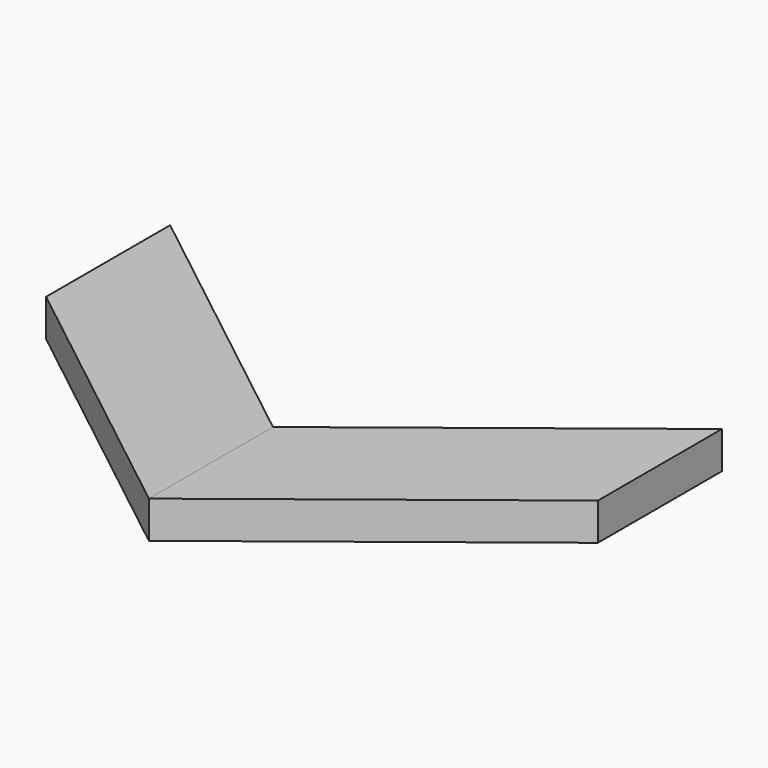
from build123d import *

# Parameters (mm, degrees)
F2_DEPTH = 15


with BuildPart() as f2:
    # F0 (on Top) → F2 (new body)
    with BuildSketch(Plane.XY):
        Polygon((-111.3015860319, 87.2953534126), (0, 0), (0, 62.5616908073), (-111.3015860319, 149.85704422), align=None)
    extrude(amount=F2_DEPTH)


with BuildPart() as f2b:
    # F1 (on face) → F2, piece 2 (new body)
    with BuildSketch(Plane.XY):
        Polygon((111.3015860319, 149.85704422), (0, 62.5616908073), (0, 0), (111.3015860319, 87.2953534126), align=None)
    extrude(amount=F2_DEPTH)


solid = Compound([f2.part, f2b.part])
